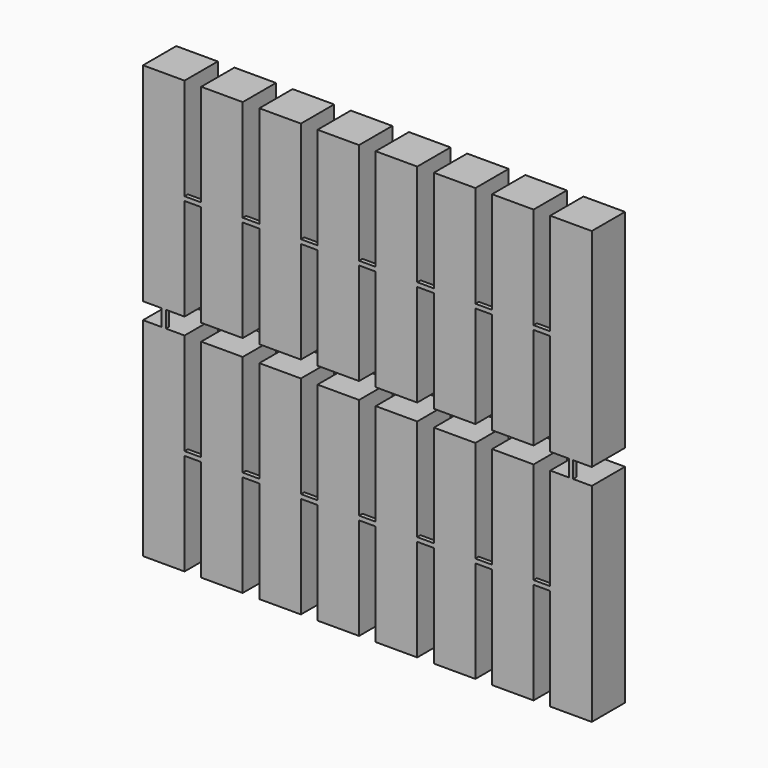
from build123d import *

# Parameters (mm, degrees)
F0_W     = 2
F0_H     = 0.5
F0_W_2   = 0.5
F0_H_2   = 2
F1_DEPTH = 5
F2_W     = 2
F2_H     = 4.5
F2_H_2   = 0.5
F3_DEPTH = 41.751
F4_W     = 4.5
F4_H     = 2
F4_W_2   = 0.5
F5_DEPTH = 51.751


with BuildPart() as f1:
    # F0 (on Front) → F1 (new body)
    with BuildSketch(Plane.XZ):
        Polygon((-2.5, -12.5), (2.5, -12.5), (2.5, -0.25), (2.5, 0.25), (2.5, 12.5), (0.25, 12.5), (-0.25, 12.5), (-2.5, 12.5), align=None)
        with Locations((3.5, 0)):
            Rectangle(F0_W, F0_H)
        Polygon((4.5, 0.25), (4.5, -0.25), (4.5, -12.5), (9.5, -12.5), (9.5, -0.25), (9.5, 0.25), (9.5, 12.5), (7.25, 12.5), (6.75, 12.5), (4.5, 12.5), align=None)
        with Locations((0, 13.5)):
            Rectangle(F0_W_2, F0_H_2)
        Polygon((-2.5, 14.5), (-0.25, 14.5), (0.25, 14.5), (2.5, 14.5), (2.5, 26.75), (2.5, 27.25), (2.5, 39.5), (0.25, 39.5), (-0.25, 39.5), (-2.5, 39.5), align=None)
        with Locations((10.5, 0)):
            Rectangle(F0_W, F0_H)
        Polygon((4.5, 14.5), (6.75, 14.5), (7.25, 14.5), (9.5, 14.5), (9.5, 26.75), (9.5, 27.25), (9.5, 39.5), (7.25, 39.5), (6.75, 39.5), (4.5, 39.5), (4.5, 27.25), (4.5, 26.75), align=None)
        Polygon((11.5, 0.25), (11.5, -0.25), (11.5, -12.5), (16.5, -12.5), (16.5, -0.25), (16.5, 0.25), (16.5, 12.5), (14.25, 12.5), (13.75, 12.5), (11.5, 12.5), align=None)
        with Locations((3.5, 27)):
            Rectangle(F0_W, F0_H)
        with Locations((0, 40.5)):
            Rectangle(F0_W_2, F0_H_2)
        with Locations((10.5, 27)):
            Rectangle(F0_W, F0_H)
        with Locations((17.5, 0)):
            Rectangle(F0_W, F0_H)
        Polygon((11.5, 27.25), (11.5, 26.75), (11.5, 14.5), (13.75, 14.5), (14.25, 14.5), (16.5, 14.5), (16.5, 26.75), (16.5, 27.25), (16.5, 39.5), (14.25, 39.5), (13.75, 39.5), (11.5, 39.5), align=None)
        Polygon((18.5, 0.25), (18.5, -0.25), (18.5, -12.5), (23.5, -12.5), (23.5, -0.25), (23.5, 0.25), (23.5, 12.5), (21.25, 12.5), (20.75, 12.5), (18.5, 12.5), align=None)
        with Locations((7, 40.5)):
            Rectangle(F0_W_2, F0_H_2)
        with Locations((14, 40.5)):
            Rectangle(F0_W_2, F0_H_2)
        with Locations((17.5, 27)):
            Rectangle(F0_W, F0_H)
        with Locations((24.5, 0)):
            Rectangle(F0_W, F0_H)
        Polygon((18.5, 27.25), (18.5, 26.75), (18.5, 14.5), (20.75, 14.5), (21.25, 14.5), (23.5, 14.5), (23.5, 26.75), (23.5, 27.25), (23.5, 39.5), (21.25, 39.5), (20.75, 39.5), (18.5, 39.5), align=None)
        Polygon((25.5, 0.25), (25.5, -0.25), (25.5, -12.5), (30.5, -12.5), (30.5, -0.25), (30.5, 0.25), (30.5, 12.5), (28.25, 12.5), (27.75, 12.5), (25.5, 12.5), align=None)
        with Locations((21, 40.5)):
            Rectangle(F0_W_2, F0_H_2)
        with Locations((24.5, 27)):
            Rectangle(F0_W, F0_H)
        with Locations((31.5, 0)):
            Rectangle(F0_W, F0_H)
        Polygon((25.5, 27.25), (25.5, 26.75), (25.5, 14.5), (27.75, 14.5), (28.25, 14.5), (30.5, 14.5), (30.5, 26.75), (30.5, 27.25), (30.5, 39.5), (28.25, 39.5), (27.75, 39.5), (25.5, 39.5), align=None)
        Polygon((32.5, 0.25), (32.5, -0.25), (32.5, -12.5), (37.5, -12.5), (37.5, -0.25), (37.5, 0.25), (37.5, 12.5), (35.25, 12.5), (34.75, 12.5), (32.5, 12.5), align=None)
        with Locations((28, 40.5)):
            Rectangle(F0_W_2, F0_H_2)
        with Locations((31.5, 27)):
            Rectangle(F0_W, F0_H)
        with Locations((38.5, 0)):
            Rectangle(F0_W, F0_H)
        Polygon((32.5, 27.25), (32.5, 26.75), (32.5, 14.5), (34.75, 14.5), (35.25, 14.5), (37.5, 14.5), (37.5, 26.75), (37.5, 27.25), (37.5, 39.5), (35.25, 39.5), (34.75, 39.5), (32.5, 39.5), align=None)
        Polygon((39.5, 0.25), (39.5, -0.25), (39.5, -12.5), (44.5, -12.5), (44.5, -0.25), (44.5, 0.25), (44.5, 12.5), (42.25, 12.5), (41.75, 12.5), (39.5, 12.5), align=None)
        with Locations((35, 40.5)):
            Rectangle(F0_W_2, F0_H_2)
        with Locations((38.5, 27)):
            Rectangle(F0_W, F0_H)
        with Locations((45.5, 0)):
            Rectangle(F0_W, F0_H)
        Polygon((39.5, 27.25), (39.5, 26.75), (39.5, 14.5), (41.75, 14.5), (42.25, 14.5), (44.5, 14.5), (44.5, 26.75), (44.5, 27.25), (44.5, 39.5), (42.25, 39.5), (41.75, 39.5), (39.5, 39.5), align=None)
        Polygon((46.5, 0.25), (46.5, -0.25), (46.5, -12.5), (51.5, -12.5), (51.5, -0.25), (51.5, 0.25), (51.5, 12.5), (49.25, 12.5), (48.75, 12.5), (46.5, 12.5), align=None)
        with Locations((42, 40.5)):
            Rectangle(F0_W_2, F0_H_2)
        with Locations((45.5, 27)):
            Rectangle(F0_W, F0_H)
        with Locations((49, 13.5)):
            Rectangle(F0_W_2, F0_H_2)
        with Locations((52.5, 0)):
            Rectangle(F0_W, F0_H)
        Polygon((46.5, 27.25), (46.5, 26.75), (46.5, 14.5), (48.75, 14.5), (49.25, 14.5), (51.5, 14.5), (51.5, 26.75), (51.5, 27.25), (51.5, 39.5), (49.25, 39.5), (48.75, 39.5), (46.5, 39.5), align=None)
        with Locations((49, 40.5)):
            Rectangle(F0_W_2, F0_H_2)
        with Locations((52.5, 27)):
            Rectangle(F0_W, F0_H)
    extrude(amount=-F1_DEPTH)

    # F2 (on face) → F3 (cut, through all)
    with BuildSketch(Plane(origin=(0, 0, -0.25), x_dir=(1, 0, 0), z_dir=(0, 0, -1))):
        with Locations((3.5, -2.75)):
            Rectangle(F2_W, F2_H)
        with Locations((10.5, -2.75)):
            Rectangle(F2_W, F2_H)
        with Locations((17.5, -2.75)):
            Rectangle(F2_W, F2_H)
        with Locations((24.5, -2.75)):
            Rectangle(F2_W, F2_H)
        with Locations((31.5, -2.75)):
            Rectangle(F2_W, F2_H)
        with Locations((38.5, -2.75)):
            Rectangle(F2_W, F2_H)
        with Locations((45.5, -2.75)):
            Rectangle(F2_W, F2_H)
        with Locations((52.5, -2.75)):
            Rectangle(F2_W, F2_H)
        with Locations((52.5, -0.25)):
            Rectangle(F2_W, F2_H_2)
    extrude(amount=-F3_DEPTH, mode=Mode.SUBTRACT)

    # F4 (on face) → F5 (cut, through all)
    with BuildSketch(Plane.YZ.offset(49.25)):
        with Locations((2.75, 40.5)):
            Rectangle(F4_W, F4_H)
        with Locations((0.25, 40.5)):
            Rectangle(F4_W_2, F4_H)
        with Locations((2.75, 13.5)):
            Rectangle(F4_W, F4_H)
    extrude(amount=-F5_DEPTH, mode=Mode.SUBTRACT)


solid = f1.part
